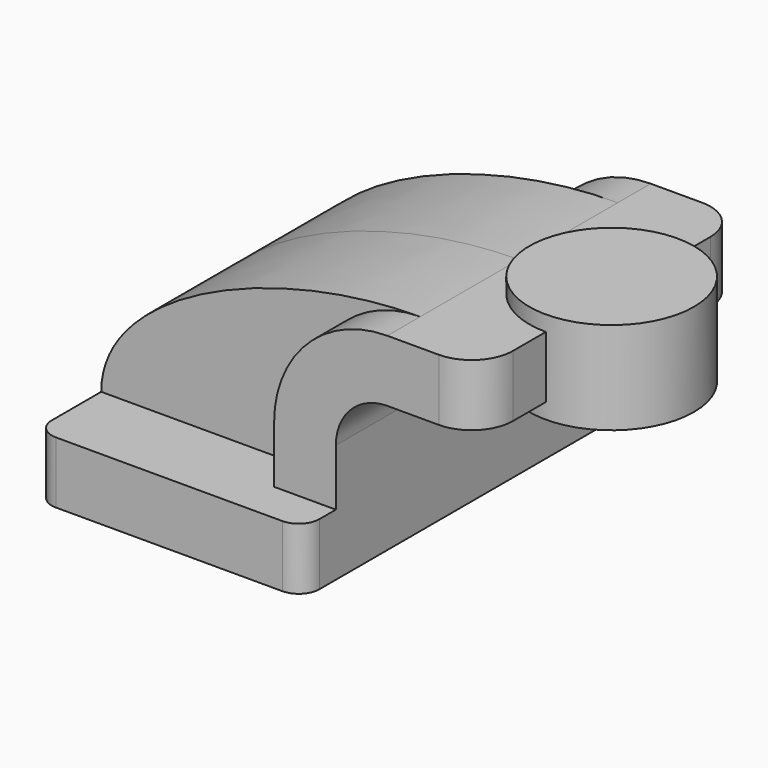
from build123d import *

# Parameters (mm, degrees)
F1_DEPTH = 63.5
F0_W     = 25.4
F0_H     = 19.05
F2_DEPTH = 50.8
F3_DEPTH = 38.1
F5_R     = 6.35
F6_R     = 12.7


with BuildPart() as f1:
    # F0 (on Front) → F1 (new body, symmetric)
    with BuildSketch(Plane.XZ):
        Polygon((22.225, 9.525), (-41.275, 9.525), (-41.275, -9.525), (41.275, -9.525), (41.275, 9.525), align=None)
    extrude(amount=F1_DEPTH, both=True)

    # F0 (on Front) → F2 (join, symmetric)
    with BuildSketch(Plane.XZ):
        with BuildLine():
            Line((22.225, 27.0002), (22.225, 9.525))
            Line((22.225, 9.525), (41.275, 9.525))
            Line((41.275, 9.525), (41.275, 27.0002))
            ThreePointArc((41.275, 27.0002), (45.9246798487, 38.2255201513), (57.15, 42.8752))
            Line((57.15, 42.8752), (60.325, 42.8752))
            Line((60.325, 42.8752), (60.325, 61.9252))
            Line((60.325, 61.9252), (57.15, 61.9252))
            ThreePointArc((57.15, 61.9252), (32.4542956671, 51.6959043329), (22.225, 27.0002))
        make_face()
        with Locations((73.025, 52.4002)):
            Rectangle(F0_W, F0_H)
    extrude(amount=F2_DEPTH, both=True)

    # F0 (on Front) → F3 (join, symmetric)
    with BuildSketch(Plane.XZ):
        with BuildLine():
            add(Edge.make_bspline(
                [(-41.275, 9.525), (-41.275, 38.7971624732), (11.6867609322, 61.9252), (57.15, 61.9252)],
                knots=[0, 0, 0, 0, 111.5045361635, 111.5045361635, 111.5045361635, 111.5045361635], degree=3))
            Line((-41.275, 9.525), (22.225, 9.525))
            Line((22.225, 9.525), (22.225, 27.0002))
            ThreePointArc((22.225, 27.0002), (32.4542956671, 51.6959043329), (57.15, 61.9252))
        make_face()
    extrude(amount=F3_DEPTH, both=True)

    # F0 (on Front) → F4 (revolve)
    with BuildSketch(Plane.XZ):
        Polygon((85.725, 66.675), (85.725, 61.9252), (85.725, 42.8752), (85.725, 38.1), (111.125, 38.1), (111.125, 66.675), align=None)
    revolve(axis=Axis((85.725, 0, 52.3875), (0, 0, 1)))

    # F5
    f5_edges = [f1.edges().sort_by_distance(p)[0] for p in [
        (41.275, -63.5, 0),
        (41.275, 63.5, 0),
        (-41.275, 63.5, 0),
        (-41.275, -63.5, 0),
    ]]
    fillet(f5_edges, radius=F5_R)

    # F6
    f6_edges = [f1.edges().sort_by_distance(p)[0] for p in [
        (85.725, -50.8, 52.4002),
        (85.725, 50.8, 52.4002),
    ]]
    fillet(f6_edges, radius=F6_R)


solid = f1.part
